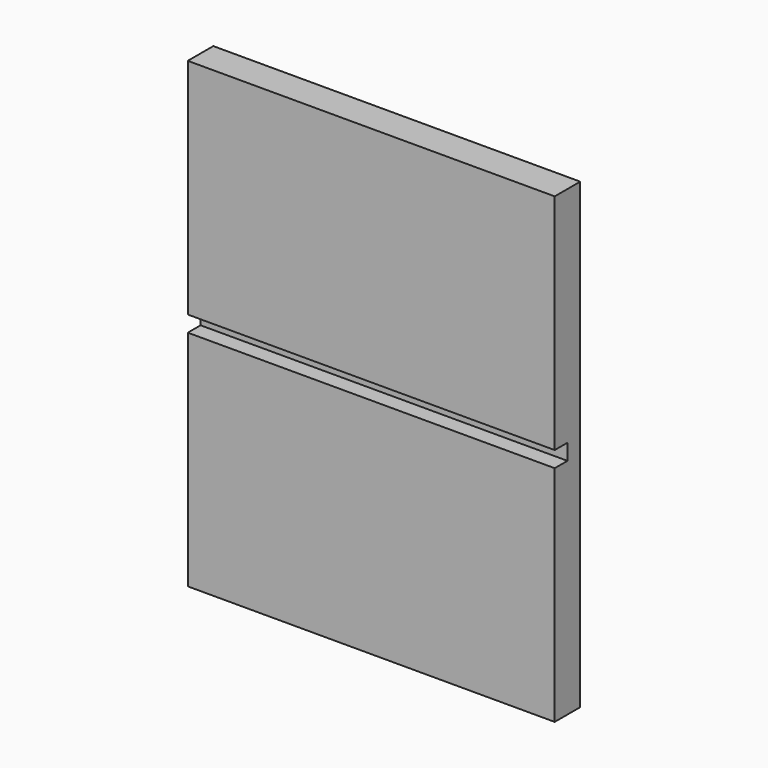
from build123d import *

# Parameters (mm, degrees)
F0_W     = 115
F0_H     = 5
F1_DEPTH = 5
F0_H_2   = 70
F2_DEPTH = 10


with BuildPart() as f1:
    # F0 (on Front) → F1 (new body)
    with BuildSketch(Plane.XZ):
        with Locations((9.485162, 2.87995)):
            Rectangle(F0_W, F0_H)
    extrude(amount=F1_DEPTH)

    # F0 (on Front) → F2 (join)
    with BuildSketch(Plane.XZ):
        with Locations((9.485162, 40.37995)):
            Rectangle(F0_W, F0_H_2)
        with Locations((9.485162, -34.62005)):
            Rectangle(F0_W, F0_H_2)
    extrude(amount=F2_DEPTH)


solid = f1.part
